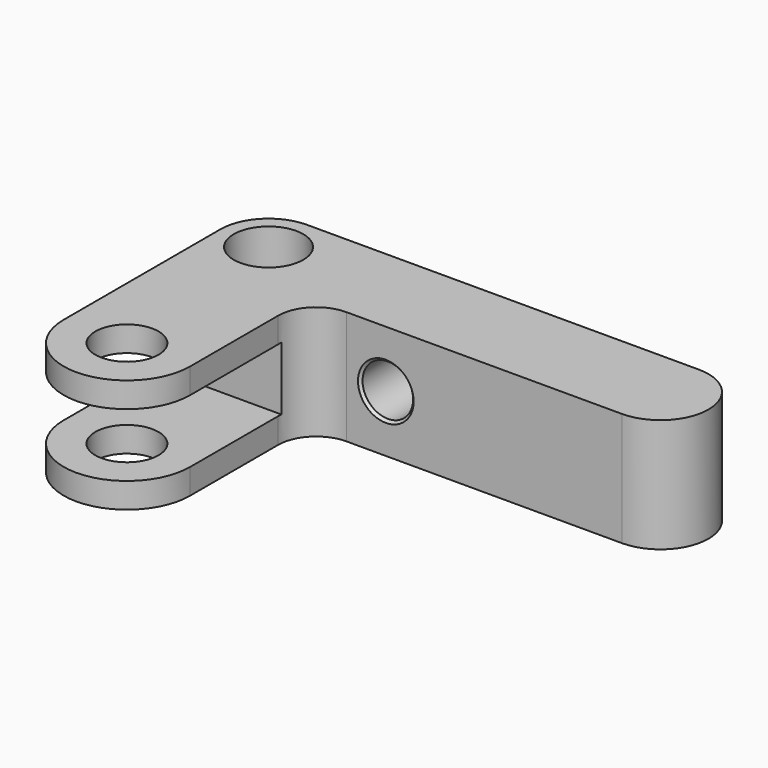
from build123d import *

# Parameters (mm, degrees)
SKETCH_R        = 1.5
SKETCH_R_2      = 2.5
PAD_DEPTH       = 9
FILLET_R        = 3
SKETCH001_W     = 15
SKETCH001_H     = 5
POCKET_DEPTH    = 38.601
SKETCH002_R     = 2
POCKET001_DEPTH = 7.6
CHAMFER_SIZE    = 0.2
SKETCH003_R     = 2.75
POCKET002_DEPTH = 2.9


with BuildPart() as part:
    # Sketch → Pad (new body)
    with BuildSketch(Plane.XY):
        with BuildLine():
            Line((15.5, 19.3), (-15.5, 19.3))
            ThreePointArc((-15.5, 19.3), (-18.187006, 18.187006), (-19.3, 15.5))
            Line((-19.3, 15.5), (-19.3, 0))
            ThreePointArc((-19.3, 0), (-14.3, -5), (-9.3, 0))
            Line((-9.3, 11.7), (-9.3, 0))
            Line((-9.3, 11.7), (15.5, 11.7))
            ThreePointArc((15.5, 11.7), (19.3, 15.5), (15.5, 19.3))
        make_face()
        with Locations((-15.5, 15.5)):
            Circle(SKETCH_R, mode=Mode.SUBTRACT)
        with Locations((-14.3, 0)):
            Circle(SKETCH_R_2, mode=Mode.SUBTRACT)
    extrude(amount=PAD_DEPTH)

    # Fillet
    fillet_edges = [part.edges().sort_by_distance(p)[0] for p in [
        (-9.3, 11.7, 4.5),
    ]]
    fillet(fillet_edges, radius=FILLET_R)

    # Sketch001 → Pocket (cut, through all)
    with BuildSketch(Plane(origin=(-19.3, 0, 0), x_dir=(0, -1, 0), z_dir=(-1, 0, 0))):
        with Locations((-1.5, 4.5)):
            Rectangle(SKETCH001_W, SKETCH001_H)
    extrude(amount=-POCKET_DEPTH, mode=Mode.SUBTRACT)

    # Sketch002 → Pocket001 (cut)
    with BuildSketch(Plane(origin=(0, 19.3, 0), x_dir=(-1, 0, 0), z_dir=(0, 1, 0))):
        with Locations((3.183548, 4.5)):
            Circle(SKETCH002_R)
    extrude(amount=-POCKET001_DEPTH, mode=Mode.SUBTRACT)

    # Chamfer
    chamfer_edges = [part.edges().sort_by_distance(p)[0] for p in [
        (-1.183548, 19.3, 4.5),
        (-1.183548, 11.7, 4.5),
    ]]
    chamfer(chamfer_edges, length=CHAMFER_SIZE)

    # Sketch003 → Pocket002 (cut)
    with BuildSketch(Plane.XY.offset(9)):
        with Locations((-15.5, 15.5)):
            Circle(SKETCH003_R)
    extrude(amount=-POCKET002_DEPTH, mode=Mode.SUBTRACT)


solid = part.part
